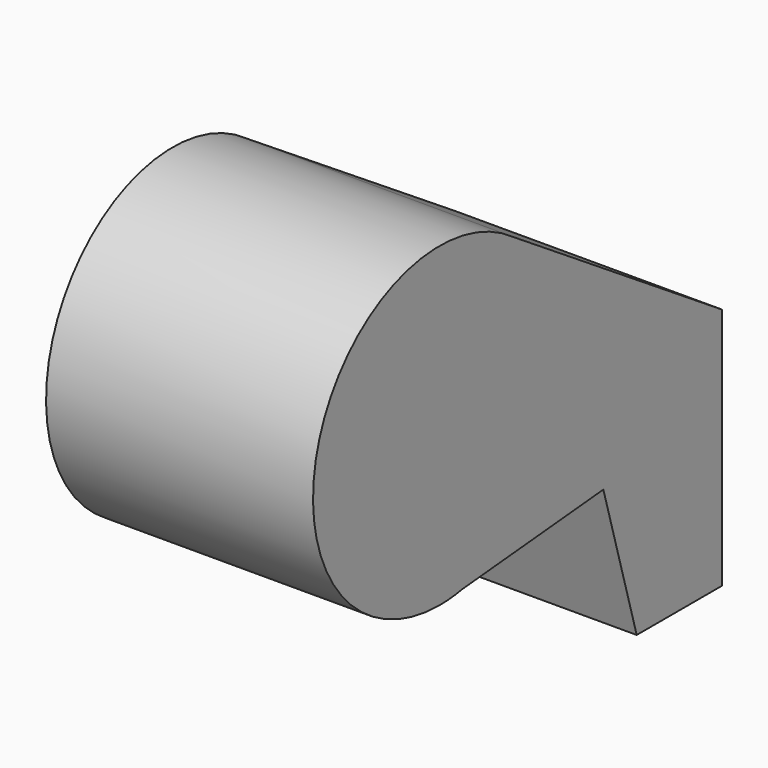
from build123d import *

# Parameters (mm, degrees)
F1_DEPTH = 50.8


with BuildPart() as f1:
    # F0 (on Right) → F1 (new body)
    with BuildSketch(Plane.YZ):
        with BuildLine():
            Line((37.963159, 27.52707), (-11.474015, 59.72486))
            ThreePointArc((-11.474015, 59.72486), (-57.811276, 44.710904), (-29.197428, 5.292528))
            Line((-29.197428, 5.292528), (-23.74864, 5.788602))
            Line((-23.74864, 5.788602), (9.762219, 8.839531))
            Line((9.762219, 8.839531), (17.695973, -18.754708))
            Line((17.695973, -18.754708), (37.963159, -18.754708))
            Line((37.963159, -18.754708), (37.963159, 27.52707))
        make_face()
        with BuildLine():
            Line((-23.74864, 5.788602), (-29.197428, 5.292528))
            ThreePointArc((-29.197428, 5.292528), (-26.461739, 5.416502), (-23.74864, 5.788602))
        make_face()
    extrude(amount=-F1_DEPTH)


solid = f1.part
